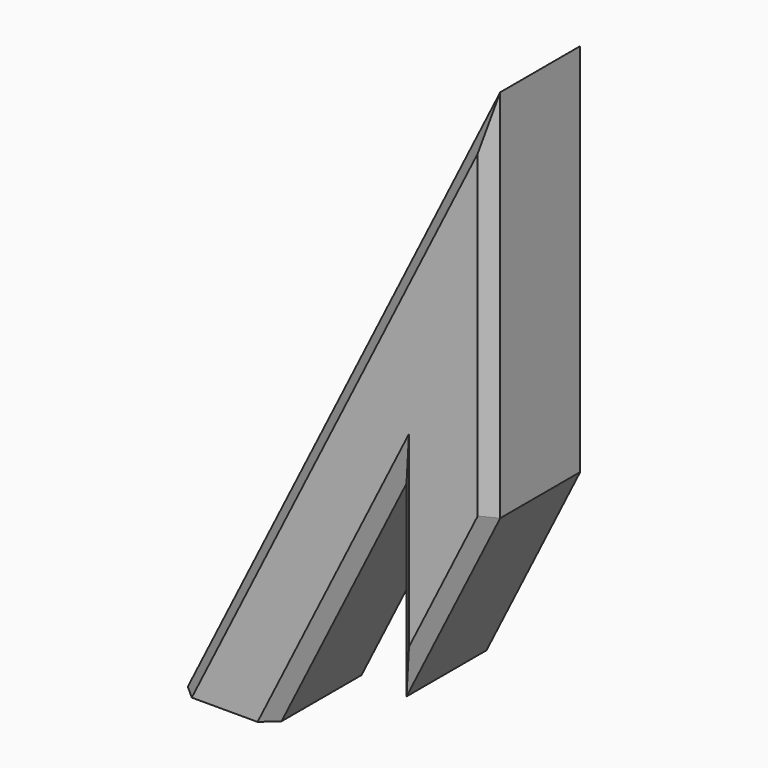
from build123d import *

# Parameters (mm, degrees)
F1_DEPTH = 10
F3_DEPTH = 1
F4_SIZE  = 1


with BuildPart() as f1:
    # F0 (on Front) → F1 (new body)
    with BuildSketch(Plane.XZ):
        Polygon((0, 20), (0, 50), (-25, 0), (-17.5, 0), (-7.5, 20), (-7.5, 5), align=None)
    extrude(amount=F1_DEPTH)

    # F2 (on face) → F3 (join)
    with BuildSketch(Plane(origin=(0, 0, 0), x_dir=(1, 0, 0), z_dir=(0, 0, -1))):
        Polygon((-21.25, 7.5), (-23.75, 7.5), (-23.75, 5), (-23.75, 2.5), (-21.25, 2.5), (-18.75, 2.5), (-18.75, 5), (-18.75, 7.5), align=None)
    extrude(amount=F3_DEPTH)

    # F4
    f4_edges = [f1.edges().sort_by_distance(p)[0] for p in [
        (-12.5, -10, 25),
        (0, -10, 35),
        (-12.5, 0, 25),
        (0, 0, 35),
        (-12.5, -10, 10),
        (-7.5, -10, 12.5),
        (-12.5, 0, 10),
        (-7.5, 0, 12.5),
        (-3.75, -10, 12.5),
        (-3.75, 0, 12.5),
    ]]
    chamfer(f4_edges, length=F4_SIZE)


solid = f1.part
